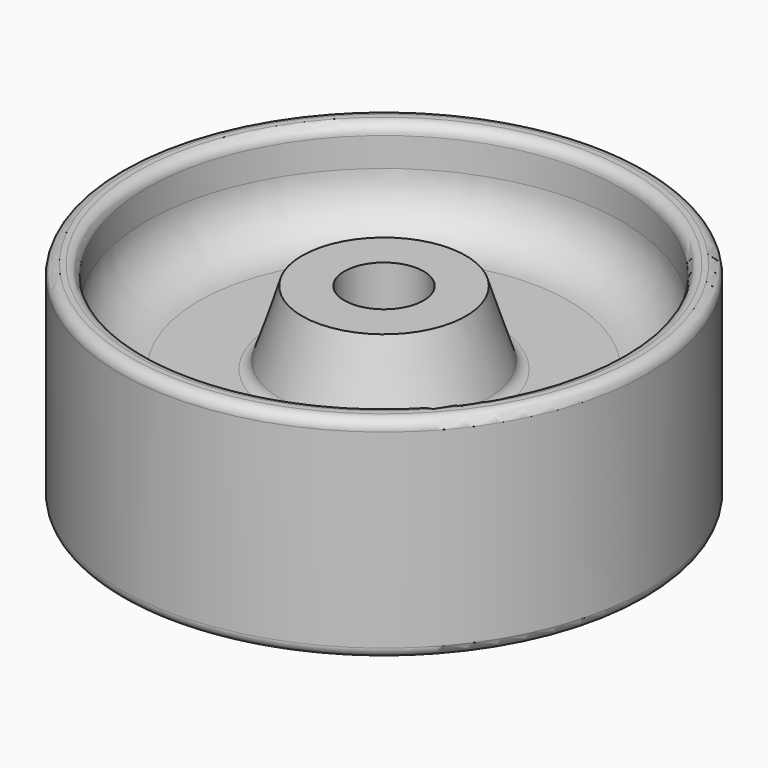
from build123d import *

# Parameters (mm, degrees)
F2_R = 2.54
F3_R = 12.7


with BuildPart() as f1:
    # F0 (on Front) → F1 (revolve)
    with BuildSketch(Plane.XZ):
        Polygon((-9.525, -20.763961), (-9.525, 0), (-9.525, 20.763961), (-19.685, 20.763961), (-25.4, 3.175), (-57.15, 3.175), (-57.15, 25.4), (-63.5, 25.4), (-63.5, 0), (-63.5, -25.4), (-57.15, -25.4), (-57.15, -3.175), (-25.4, -3.175), (-19.685, -20.763961), align=None)
    revolve(axis=Axis((0, 0, 28.310422), (0, 0, 1)))

    # F2
    f2_edges = [f1.edges().sort_by_distance(p)[0] for p in [
        (63.5, 0, 25.4),
        (57.15, 0, -25.4),
        (57.15, 0, 25.4),
        (63.5, 0, -25.4),
        (25.4, 0, -3.175),
        (25.4, 0, 3.175),
    ]]
    fillet(f2_edges, radius=F2_R)

    # F3
    f3_edges = [f1.edges().sort_by_distance(p)[0] for p in [
        (57.15, 0, 3.175),
    ]]
    fillet(f3_edges, radius=F3_R)


solid = f1.part
